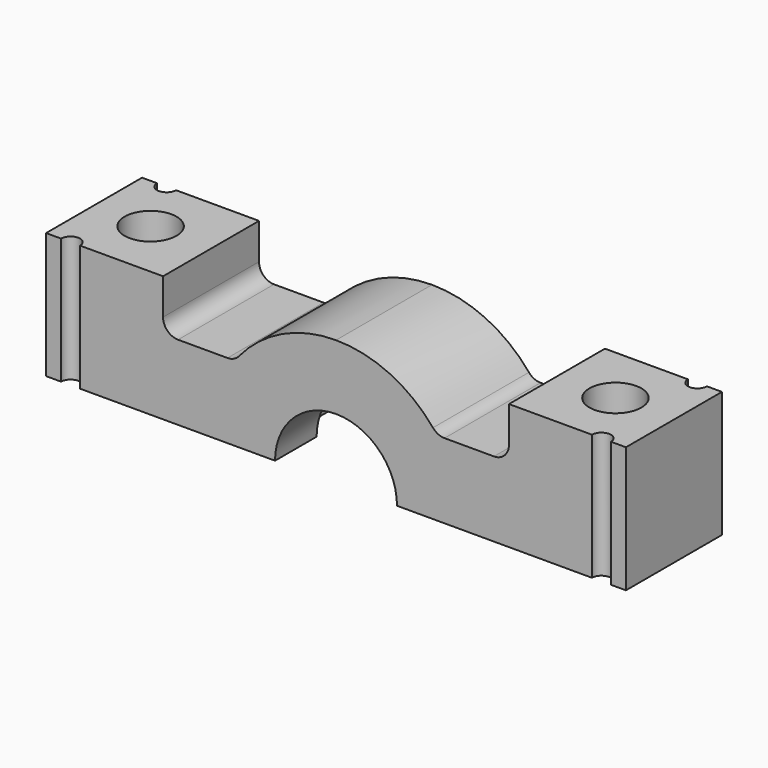
from build123d import *

# Parameters (mm, degrees)
F0_R      = 2.6
F1_DEPTH  = 12.6
F2_R      = 6.1
F3_DEPTH  = 13
F2_R_2    = 8.05
F4_DEPTH  = 6.8
F7_ANGLE  = 180
F10_DEPTH = 13
F11_R     = 1.5


with BuildPart() as f1:
    # F0 (on Top) → F1 (new body)
    with BuildSketch(Plane.XY):
        with BuildLine():
            Line((-27.5, 6), (-29, 6))
            Line((-29, 6), (-29, -6))
            Line((-29, -6), (-27.5, -6))
            ThreePointArc((-27.5, -6), (-26.55, -5.05), (-25.6, -6))
            Line((-25.6, -6), (25.6, -6))
            ThreePointArc((25.6, -6), (26.55, -5.05), (27.5, -6))
            Line((27.5, -6), (29, -6))
            Line((29, -6), (29, 6))
            Line((29, 6), (27.5, 6))
            ThreePointArc((27.5, 6), (26.55, 5.05), (25.6, 6))
            Line((25.6, 6), (-25.6, 6))
            ThreePointArc((-25.6, 6), (-26.55, 5.05), (-27.5, 6))
        make_face()
        with Locations((-23.35, 0)):
            Circle(F0_R, mode=Mode.SUBTRACT)
        with Locations((23.15, 0)):
            Circle(F0_R, mode=Mode.SUBTRACT)
    extrude(amount=F1_DEPTH)

    # F2 (on face) → F3 (cut)
    with BuildSketch(Plane(origin=(0, 6, 0), x_dir=(-1, 0, 0), z_dir=(0, 1, 0))):
        Circle(F2_R)
    extrude(amount=-F3_DEPTH, mode=Mode.SUBTRACT)

    # F2 (on face) → F4 (cut)
    with BuildSketch(Plane(origin=(0, 6, 0), x_dir=(-1, 0, 0), z_dir=(0, 1, 0))):
        Circle(F2_R_2)
        Circle(F2_R, mode=Mode.SUBTRACT)
    extrude(amount=-F4_DEPTH, mode=Mode.SUBTRACT)

    # F9 (on face) → F10 (cut)
    with BuildSketch(Plane(origin=(0, 6, 0), x_dir=(-1, 0, 0), z_dir=(0, 1, 0))):
        with BuildLine():
            Line((-17.3, 7.5), (-10.124722, 7.5))
            ThreePointArc((-10.124722, 7.5), (-5.668333, 11.253), (0, 12.6))
            Line((0, 12.6), (-17.3, 12.6))
            Line((-17.3, 12.6), (-17.3, 7.5))
        make_face()
        with BuildLine():
            ThreePointArc((0, 12.6), (5.668333, 11.253), (10.124722, 7.5))
            Line((10.124722, 7.5), (17.3, 7.5))
            Line((17.3, 7.5), (17.3, 12.6))
            Line((17.3, 12.6), (0, 12.6))
        make_face()
    extrude(amount=-F10_DEPTH, mode=Mode.SUBTRACT)

    # F11
    f11_edges = [f1.edges().sort_by_distance(p)[0] for p in [
        (17.3, 0, 7.5),
        (10.124722, 0, 7.5),
        (-10.124722, 0, 7.5),
        (-17.3, 0, 7.5),
    ]]
    fillet(f11_edges, radius=F11_R)


with BuildPart() as f5_1:
    # F5: copy of F1
    add(f1.part)


with BuildPart() as f7_1:
    # F7: copy of F1
    add(f1.part.rotate(Axis((0, 1.422519, 0), (0, 1, 0)), F7_ANGLE))


solid = f1.part
